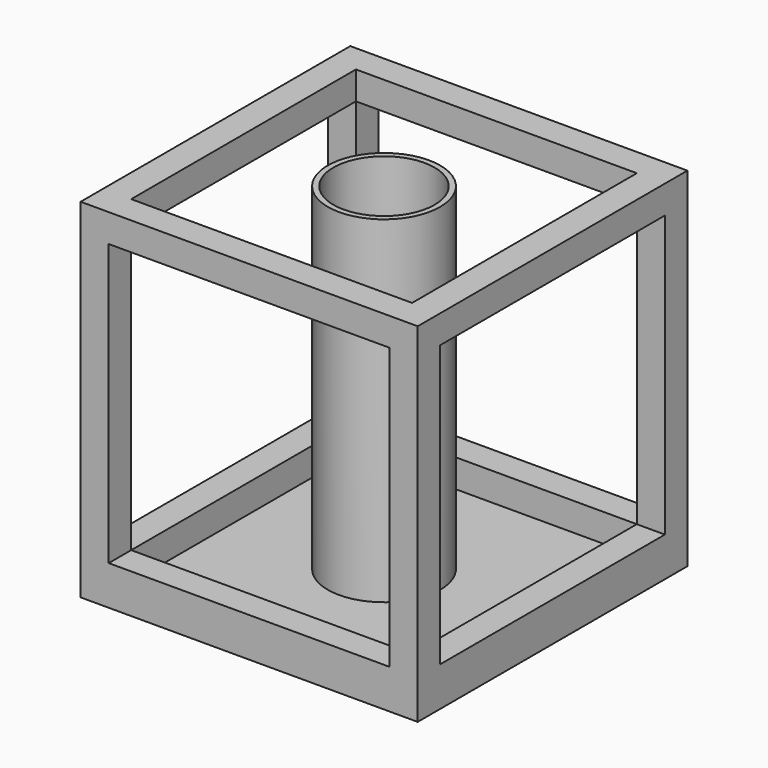
from build123d import *

# Parameters (mm, degrees)
F0_W     = 60
F0_H     = 60
F0_W_2   = 50
F0_H_2   = 50
F0_R     = 10
F0_R_2   = 9
F1_DEPTH = 2
F2_DEPTH = 60
F3_W     = 50
F3_H     = 50
F4_DEPTH = 60.001
F5_W     = 50
F5_H     = 50
F6_DEPTH = 60.001
F7_DEPTH = 60


with BuildPart() as f1:
    # F0 (on Top) → F1 (new body)
    with BuildSketch(Plane.XY):
        Rectangle(F0_W, F0_H)
        Rectangle(F0_W_2, F0_H_2, mode=Mode.SUBTRACT)
        Rectangle(F0_W_2, F0_H_2)
        Circle(F0_R, mode=Mode.SUBTRACT)
        Circle(F0_R)
        Circle(F0_R_2, mode=Mode.SUBTRACT)
        Circle(F0_R_2)
    extrude(amount=-F1_DEPTH)

    # F0 (on Top) → F2 (join)
    with BuildSketch(Plane.XY):
        Rectangle(F0_W, F0_H)
        Rectangle(F0_W_2, F0_H_2, mode=Mode.SUBTRACT)
    extrude(amount=F2_DEPTH)

    # F3 (on face) → F4 (cut, through all)
    with BuildSketch(Plane(origin=(-30, 0, 0), x_dir=(0, -1, 0), z_dir=(-1, 0, 0))):
        with Locations((0, 30)):
            Rectangle(F3_W, F3_H)
    extrude(amount=-F4_DEPTH, mode=Mode.SUBTRACT)

    # F5 (on face) → F6 (cut, through all)
    with BuildSketch(Plane.XZ.offset(30)):
        with Locations((0, 30)):
            Rectangle(F5_W, F5_H)
    extrude(amount=-F6_DEPTH, mode=Mode.SUBTRACT)

    # F0 (on Top) → F7 (join)
    with BuildSketch(Plane.XY):
        Circle(F0_R)
        Circle(F0_R_2, mode=Mode.SUBTRACT)
    extrude(amount=F7_DEPTH)


solid = f1.part
